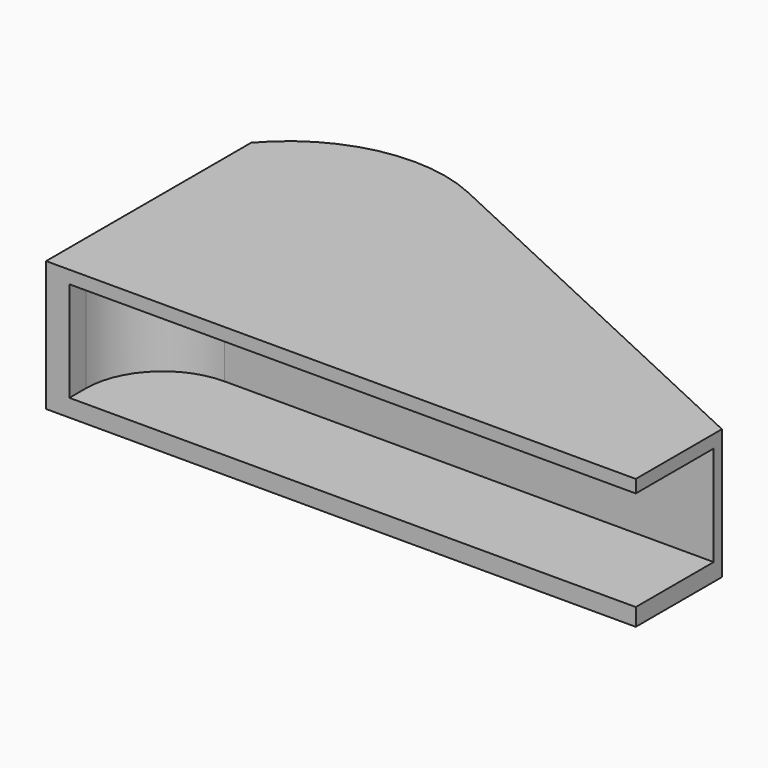
from build123d import *

# Parameters (mm, degrees)
F1_DEPTH = 25.4
F2_W     = 110.45
F2_H     = 19.5
F3_DEPTH = 19
F4_R     = 15


with BuildPart() as f1:
    # F0 (on Top) → F1 (new body)
    with BuildSketch(Plane.XY):
        with BuildLine():
            Line((0, 50), (0, 0))
            Line((0, 0), (115, 0))
            Line((115, 0), (115, 21))
            Line((115, 21), (36.155032, 57.766013))
            ThreePointArc((36.155032, 57.766013), (16.773652, 59.953206), (0, 50))
        make_face()
    extrude(amount=F1_DEPTH)

    # F2 (on face) → F3 (cut)
    with BuildSketch(Plane.XZ):
        with Locations((59.775, 13.15)):
            Rectangle(F2_W, F2_H)
    extrude(amount=-F3_DEPTH, mode=Mode.SUBTRACT)

    # F4
    f4_edges = [f1.edges().sort_by_distance(p)[0] for p in [
        (4.55, 19, 13.15),
    ]]
    fillet(f4_edges, radius=F4_R)


solid = f1.part
